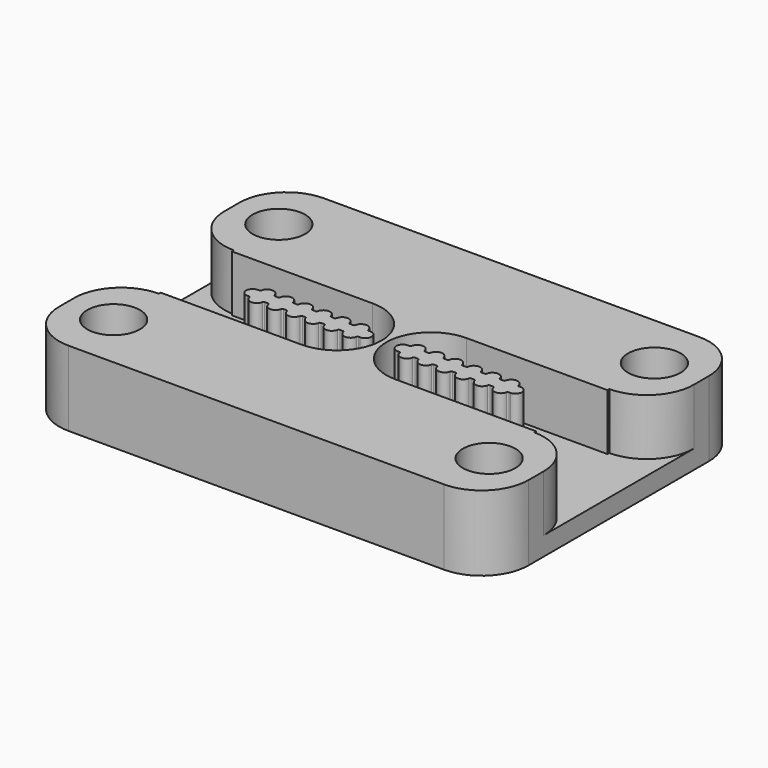
from build123d import *

# Parameters (mm, degrees)
F1_DEPTH = 2
F0_R     = 2.8
F2_DEPTH = 8


with BuildPart() as f1:
    # F0 (on Top) → F1 (new body)
    with BuildSketch(Plane.XY):
        with BuildLine():
            ThreePointArc((-20, 5), (-23.535534, 6.464466), (-25, 10))
            Line((-25, 10), (-25, -10))
            ThreePointArc((-25, -10), (-23.535534, -6.464466), (-20, -5))
            Line((-20, -5), (-20, -4.75))
            Line((-20, -4.75), (-5, -4.75))
            ThreePointArc((-5, -4.75), (-0.25, 0), (-5, 4.75))
            Line((-5, 4.75), (-20, 4.75))
            Line((-20, 4.75), (-20, 5))
        make_face()
        with BuildLine():
            Line((-2.16334, 0.68), (-2, 0.68))
            ThreePointArc((-2, 0.68), (-1.32, 0), (-2, -0.68))
            Line((-2, -0.68), (-2.16334, -0.68))
            ThreePointArc((-2.16334, -0.68), (-2.259593, -0.714955), (-2.310986, -0.803529))
            ThreePointArc((-2.310986, -0.803529), (-3, -1.38), (-3.689014, -0.803529))
            ThreePointArc((-3.689014, -0.803529), (-3.740407, -0.714955), (-3.83666, -0.68))
            Line((-3.83666, -0.68), (-4.16334, -0.68))
            ThreePointArc((-4.16334, -0.68), (-4.259593, -0.714955), (-4.310986, -0.803529))
            ThreePointArc((-4.310986, -0.803529), (-5, -1.38), (-5.689014, -0.803529))
            ThreePointArc((-5.689014, -0.803529), (-5.740407, -0.714955), (-5.83666, -0.68))
            Line((-5.83666, -0.68), (-6.16334, -0.68))
            ThreePointArc((-6.16334, -0.68), (-6.259593, -0.714955), (-6.310986, -0.803529))
            ThreePointArc((-6.310986, -0.803529), (-7, -1.38), (-7.689014, -0.803529))
            ThreePointArc((-7.689014, -0.803529), (-7.740407, -0.714955), (-7.83666, -0.68))
            Line((-7.83666, -0.68), (-8.16334, -0.68))
            ThreePointArc((-8.16334, -0.68), (-8.259593, -0.714955), (-8.310986, -0.803529))
            ThreePointArc((-8.310986, -0.803529), (-9, -1.38), (-9.689014, -0.803529))
            ThreePointArc((-9.689014, -0.803529), (-9.740407, -0.714955), (-9.83666, -0.68))
            Line((-9.83666, -0.68), (-10, -0.68))
            Line((-10, -0.68), (-10.16334, -0.68))
            ThreePointArc((-10.16334, -0.68), (-10.259593, -0.714955), (-10.310986, -0.803529))
            ThreePointArc((-10.310986, -0.803529), (-11, -1.38), (-11.689014, -0.803529))
            ThreePointArc((-11.689014, -0.803529), (-11.740407, -0.714955), (-11.83666, -0.68))
            Line((-11.83666, -0.68), (-12, -0.68))
            Line((-12, -0.68), (-12.16334, -0.68))
            ThreePointArc((-12.16334, -0.68), (-12.259593, -0.714955), (-12.310986, -0.803529))
            ThreePointArc((-12.310986, -0.803529), (-13, -1.38), (-13.689014, -0.803529))
            ThreePointArc((-13.689014, -0.803529), (-13.740407, -0.714955), (-13.83666, -0.68))
            Line((-13.83666, -0.68), (-14, -0.68))
            ThreePointArc((-14, -0.68), (-14.68, 0), (-14, 0.68))
            Line((-14, 0.68), (-13.83666, 0.68))
            ThreePointArc((-13.83666, 0.68), (-13.740407, 0.714955), (-13.689014, 0.803529))
            ThreePointArc((-13.689014, 0.803529), (-13, 1.38), (-12.310986, 0.803529))
            ThreePointArc((-12.310986, 0.803529), (-12.259593, 0.714955), (-12.16334, 0.68))
            Line((-12.16334, 0.68), (-12, 0.68))
            Line((-12, 0.68), (-11.83666, 0.68))
            ThreePointArc((-11.83666, 0.68), (-11.740407, 0.714955), (-11.689014, 0.803529))
            ThreePointArc((-11.689014, 0.803529), (-11, 1.38), (-10.310986, 0.803529))
            ThreePointArc((-10.310986, 0.803529), (-10.259593, 0.714955), (-10.16334, 0.68))
            Line((-10.16334, 0.68), (-10, 0.68))
            Line((-10, 0.68), (-9.83666, 0.68))
            ThreePointArc((-9.83666, 0.68), (-9.740407, 0.714955), (-9.689014, 0.803529))
            ThreePointArc((-9.689014, 0.803529), (-9, 1.38), (-8.310986, 0.803529))
            ThreePointArc((-8.310986, 0.803529), (-8.259593, 0.714955), (-8.16334, 0.68))
            Line((-8.16334, 0.68), (-8, 0.68))
            Line((-8, 0.68), (-7.83666, 0.68))
            ThreePointArc((-7.83666, 0.68), (-7.740407, 0.714955), (-7.689014, 0.803529))
            ThreePointArc((-7.689014, 0.803529), (-7, 1.38), (-6.310986, 0.803529))
            ThreePointArc((-6.310986, 0.803529), (-6.259593, 0.714955), (-6.16334, 0.68))
            Line((-6.16334, 0.68), (-6, 0.68))
            Line((-6, 0.68), (-5.83666, 0.68))
            ThreePointArc((-5.83666, 0.68), (-5.740407, 0.714955), (-5.689014, 0.803529))
            ThreePointArc((-5.689014, 0.803529), (-5, 1.38), (-4.310986, 0.803529))
            ThreePointArc((-4.310986, 0.803529), (-4.259593, 0.714955), (-4.16334, 0.68))
            Line((-4.16334, 0.68), (-4, 0.68))
            Line((-4, 0.68), (-3.83666, 0.68))
            ThreePointArc((-3.83666, 0.68), (-3.740407, 0.714955), (-3.689014, 0.803529))
            ThreePointArc((-3.689014, 0.803529), (-3, 1.38), (-2.310986, 0.803529))
            ThreePointArc((-2.310986, 0.803529), (-2.259593, 0.714955), (-2.16334, 0.68))
        make_face(mode=Mode.SUBTRACT)
        with BuildLine():
            Line((25, -10), (25, 10))
            ThreePointArc((25, 10), (23.535534, 6.464466), (20, 5))
            Line((20, 5), (20, 4.75))
            Line((20, 4.75), (5, 4.75))
            ThreePointArc((5, 4.75), (0.25, 0), (5, -4.75))
            Line((5, -4.75), (20, -4.75))
            Line((20, -4.75), (20, -5))
            ThreePointArc((20, -5), (23.535534, -6.464466), (25, -10))
        make_face()
        with BuildLine():
            Line((2.16334, -0.68), (2, -0.68))
            ThreePointArc((2, -0.68), (1.32, 0), (2, 0.68))
            Line((2, 0.68), (2.16334, 0.68))
            ThreePointArc((2.16334, 0.68), (2.259593, 0.714955), (2.310986, 0.803529))
            ThreePointArc((2.310986, 0.803529), (3, 1.38), (3.689014, 0.803529))
            ThreePointArc((3.689014, 0.803529), (3.740407, 0.714955), (3.83666, 0.68))
            Line((3.83666, 0.68), (4, 0.68))
            Line((4, 0.68), (4.16334, 0.68))
            ThreePointArc((4.16334, 0.68), (4.259593, 0.714955), (4.310986, 0.803529))
            ThreePointArc((4.310986, 0.803529), (5, 1.38), (5.689014, 0.803529))
            ThreePointArc((5.689014, 0.803529), (5.740407, 0.714955), (5.83666, 0.68))
            Line((5.83666, 0.68), (6, 0.68))
            Line((6, 0.68), (6.16334, 0.68))
            ThreePointArc((6.16334, 0.68), (6.259593, 0.714955), (6.310986, 0.803529))
            ThreePointArc((6.310986, 0.803529), (7, 1.38), (7.689014, 0.803529))
            ThreePointArc((7.689014, 0.803529), (7.740407, 0.714955), (7.83666, 0.68))
            Line((7.83666, 0.68), (8, 0.68))
            Line((8, 0.68), (8.16334, 0.68))
            ThreePointArc((8.16334, 0.68), (8.259593, 0.714955), (8.310986, 0.803529))
            ThreePointArc((8.310986, 0.803529), (9, 1.38), (9.689014, 0.803529))
            ThreePointArc((9.689014, 0.803529), (9.740407, 0.714955), (9.83666, 0.68))
            Line((9.83666, 0.68), (10, 0.68))
            Line((10, 0.68), (10.16334, 0.68))
            ThreePointArc((10.16334, 0.68), (10.259593, 0.714955), (10.310986, 0.803529))
            ThreePointArc((10.310986, 0.803529), (11, 1.38), (11.689014, 0.803529))
            ThreePointArc((11.689014, 0.803529), (11.740407, 0.714955), (11.83666, 0.68))
            Line((11.83666, 0.68), (12, 0.68))
            Line((12, 0.68), (12.16334, 0.68))
            ThreePointArc((12.16334, 0.68), (12.259593, 0.714955), (12.310986, 0.803529))
            ThreePointArc((12.310986, 0.803529), (13, 1.38), (13.689014, 0.803529))
            ThreePointArc((13.689014, 0.803529), (13.740407, 0.714955), (13.83666, 0.68))
            Line((13.83666, 0.68), (14, 0.68))
            ThreePointArc((14, 0.68), (14.68, 0), (14, -0.68))
            Line((14, -0.68), (13.83666, -0.68))
            ThreePointArc((13.83666, -0.68), (13.740407, -0.714955), (13.689014, -0.803529))
            ThreePointArc((13.689014, -0.803529), (13, -1.38), (12.310986, -0.803529))
            ThreePointArc((12.310986, -0.803529), (12.259593, -0.714955), (12.16334, -0.68))
            Line((12.16334, -0.68), (12, -0.68))
            Line((12, -0.68), (11.83666, -0.68))
            ThreePointArc((11.83666, -0.68), (11.740407, -0.714955), (11.689014, -0.803529))
            ThreePointArc((11.689014, -0.803529), (11, -1.38), (10.310986, -0.803529))
            ThreePointArc((10.310986, -0.803529), (10.259593, -0.714955), (10.16334, -0.68))
            Line((10.16334, -0.68), (10, -0.68))
            Line((10, -0.68), (9.83666, -0.68))
            ThreePointArc((9.83666, -0.68), (9.740407, -0.714955), (9.689014, -0.803529))
            ThreePointArc((9.689014, -0.803529), (9, -1.38), (8.310986, -0.803529))
            ThreePointArc((8.310986, -0.803529), (8.259593, -0.714955), (8.16334, -0.68))
            Line((8.16334, -0.68), (7.83666, -0.68))
            ThreePointArc((7.83666, -0.68), (7.740407, -0.714955), (7.689014, -0.803529))
            ThreePointArc((7.689014, -0.803529), (7, -1.38), (6.310986, -0.803529))
            ThreePointArc((6.310986, -0.803529), (6.259593, -0.714955), (6.16334, -0.68))
            Line((6.16334, -0.68), (5.83666, -0.68))
            ThreePointArc((5.83666, -0.68), (5.740407, -0.714955), (5.689014, -0.803529))
            ThreePointArc((5.689014, -0.803529), (5, -1.38), (4.310986, -0.803529))
            ThreePointArc((4.310986, -0.803529), (4.259593, -0.714955), (4.16334, -0.68))
            Line((4.16334, -0.68), (3.83666, -0.68))
            ThreePointArc((3.83666, -0.68), (3.740407, -0.714955), (3.689014, -0.803529))
            ThreePointArc((3.689014, -0.803529), (3, -1.38), (2.310986, -0.803529))
            ThreePointArc((2.310986, -0.803529), (2.259593, -0.714955), (2.16334, -0.68))
        make_face(mode=Mode.SUBTRACT)
    extrude(amount=F1_DEPTH)

    # F0 (on Top) → F2 (join)
    with BuildSketch(Plane.XY):
        with BuildLine():
            Line((-25, 12), (-25, 10))
            ThreePointArc((-25, 10), (-23.535534, 6.464466), (-20, 5))
            Line((-20, 5), (-20, 4.75))
            Line((-20, 4.75), (-5, 4.75))
            ThreePointArc((-5, 4.75), (-0.25, 0), (-5, -4.75))
            Line((-5, -4.75), (-20, -4.75))
            Line((-20, -4.75), (-20, -5))
            ThreePointArc((-20, -5), (-23.535534, -6.464466), (-25, -10))
            Line((-25, -10), (-25, -12))
            ThreePointArc((-25, -12), (-23.535534, -15.535534), (-20, -17))
            Line((-20, -17), (0, -17))
            Line((0, -17), (20, -17))
            ThreePointArc((20, -17), (23.535534, -15.535534), (25, -12))
            Line((25, -12), (25, -10))
            ThreePointArc((25, -10), (23.535534, -6.464466), (20, -5))
            Line((20, -5), (20, -4.75))
            Line((20, -4.75), (5, -4.75))
            ThreePointArc((5, -4.75), (0.25, 0), (5, 4.75))
            Line((5, 4.75), (20, 4.75))
            Line((20, 4.75), (20, 5))
            ThreePointArc((20, 5), (23.535534, 6.464466), (25, 10))
            Line((25, 10), (25, 12))
            ThreePointArc((25, 12), (23.535534, 15.535534), (20, 17))
            Line((20, 17), (0, 17))
            Line((0, 17), (-20, 17))
            ThreePointArc((-20, 17), (-23.535534, 15.535534), (-25, 12))
        make_face()
        with Locations((-20, -11)):
            Circle(F0_R, mode=Mode.SUBTRACT)
        with Locations((20, -11)):
            Circle(F0_R, mode=Mode.SUBTRACT)
        with Locations((-20, 11)):
            Circle(F0_R, mode=Mode.SUBTRACT)
        with Locations((20, 11)):
            Circle(F0_R, mode=Mode.SUBTRACT)
        with BuildLine():
            ThreePointArc((2, 0.68), (1.32, 0), (2, -0.68))
            Line((2, -0.68), (2.16334, -0.68))
            ThreePointArc((2.16334, -0.68), (2.259593, -0.714955), (2.310986, -0.803529))
            ThreePointArc((2.310986, -0.803529), (3, -1.38), (3.689014, -0.803529))
            ThreePointArc((3.689014, -0.803529), (3.740407, -0.714955), (3.83666, -0.68))
            Line((3.83666, -0.68), (4.16334, -0.68))
            ThreePointArc((4.16334, -0.68), (4.259593, -0.714955), (4.310986, -0.803529))
            ThreePointArc((4.310986, -0.803529), (5, -1.38), (5.689014, -0.803529))
            ThreePointArc((5.689014, -0.803529), (5.740407, -0.714955), (5.83666, -0.68))
            Line((5.83666, -0.68), (6.16334, -0.68))
            ThreePointArc((6.16334, -0.68), (6.259593, -0.714955), (6.310986, -0.803529))
            ThreePointArc((6.310986, -0.803529), (7, -1.38), (7.689014, -0.803529))
            ThreePointArc((7.689014, -0.803529), (7.740407, -0.714955), (7.83666, -0.68))
            Line((7.83666, -0.68), (8.16334, -0.68))
            ThreePointArc((8.16334, -0.68), (8.259593, -0.714955), (8.310986, -0.803529))
            ThreePointArc((8.310986, -0.803529), (9, -1.38), (9.689014, -0.803529))
            ThreePointArc((9.689014, -0.803529), (9.740407, -0.714955), (9.83666, -0.68))
            Line((9.83666, -0.68), (10, -0.68))
            Line((10, -0.68), (10.16334, -0.68))
            ThreePointArc((10.16334, -0.68), (10.259593, -0.714955), (10.310986, -0.803529))
            ThreePointArc((10.310986, -0.803529), (11, -1.38), (11.689014, -0.803529))
            ThreePointArc((11.689014, -0.803529), (11.740407, -0.714955), (11.83666, -0.68))
            Line((11.83666, -0.68), (12, -0.68))
            Line((12, -0.68), (12.16334, -0.68))
            ThreePointArc((12.16334, -0.68), (12.259593, -0.714955), (12.310986, -0.803529))
            ThreePointArc((12.310986, -0.803529), (13, -1.38), (13.689014, -0.803529))
            ThreePointArc((13.689014, -0.803529), (13.740407, -0.714955), (13.83666, -0.68))
            Line((13.83666, -0.68), (14, -0.68))
            ThreePointArc((14, -0.68), (14.68, 0), (14, 0.68))
            Line((14, 0.68), (13.83666, 0.68))
            ThreePointArc((13.83666, 0.68), (13.740407, 0.714955), (13.689014, 0.803529))
            ThreePointArc((13.689014, 0.803529), (13, 1.38), (12.310986, 0.803529))
            ThreePointArc((12.310986, 0.803529), (12.259593, 0.714955), (12.16334, 0.68))
            Line((12.16334, 0.68), (12, 0.68))
            Line((12, 0.68), (11.83666, 0.68))
            ThreePointArc((11.83666, 0.68), (11.740407, 0.714955), (11.689014, 0.803529))
            ThreePointArc((11.689014, 0.803529), (11, 1.38), (10.310986, 0.803529))
            ThreePointArc((10.310986, 0.803529), (10.259593, 0.714955), (10.16334, 0.68))
            Line((10.16334, 0.68), (10, 0.68))
            Line((10, 0.68), (9.83666, 0.68))
            ThreePointArc((9.83666, 0.68), (9.740407, 0.714955), (9.689014, 0.803529))
            ThreePointArc((9.689014, 0.803529), (9, 1.38), (8.310986, 0.803529))
            ThreePointArc((8.310986, 0.803529), (8.259593, 0.714955), (8.16334, 0.68))
            Line((8.16334, 0.68), (8, 0.68))
            Line((8, 0.68), (7.83666, 0.68))
            ThreePointArc((7.83666, 0.68), (7.740407, 0.714955), (7.689014, 0.803529))
            ThreePointArc((7.689014, 0.803529), (7, 1.38), (6.310986, 0.803529))
            ThreePointArc((6.310986, 0.803529), (6.259593, 0.714955), (6.16334, 0.68))
            Line((6.16334, 0.68), (6, 0.68))
            Line((6, 0.68), (5.83666, 0.68))
            ThreePointArc((5.83666, 0.68), (5.740407, 0.714955), (5.689014, 0.803529))
            ThreePointArc((5.689014, 0.803529), (5, 1.38), (4.310986, 0.803529))
            ThreePointArc((4.310986, 0.803529), (4.259593, 0.714955), (4.16334, 0.68))
            Line((4.16334, 0.68), (4, 0.68))
            Line((4, 0.68), (3.83666, 0.68))
            ThreePointArc((3.83666, 0.68), (3.740407, 0.714955), (3.689014, 0.803529))
            ThreePointArc((3.689014, 0.803529), (3, 1.38), (2.310986, 0.803529))
            ThreePointArc((2.310986, 0.803529), (2.259593, 0.714955), (2.16334, 0.68))
            Line((2.16334, 0.68), (2, 0.68))
        make_face()
        with BuildLine():
            ThreePointArc((-2, -0.68), (-1.32, 0), (-2, 0.68))
            Line((-2, 0.68), (-2.16334, 0.68))
            ThreePointArc((-2.16334, 0.68), (-2.259593, 0.714955), (-2.310986, 0.803529))
            ThreePointArc((-2.310986, 0.803529), (-3, 1.38), (-3.689014, 0.803529))
            ThreePointArc((-3.689014, 0.803529), (-3.740407, 0.714955), (-3.83666, 0.68))
            Line((-3.83666, 0.68), (-4, 0.68))
            Line((-4, 0.68), (-4.16334, 0.68))
            ThreePointArc((-4.16334, 0.68), (-4.259593, 0.714955), (-4.310986, 0.803529))
            ThreePointArc((-4.310986, 0.803529), (-5, 1.38), (-5.689014, 0.803529))
            ThreePointArc((-5.689014, 0.803529), (-5.740407, 0.714955), (-5.83666, 0.68))
            Line((-5.83666, 0.68), (-6, 0.68))
            Line((-6, 0.68), (-6.16334, 0.68))
            ThreePointArc((-6.16334, 0.68), (-6.259593, 0.714955), (-6.310986, 0.803529))
            ThreePointArc((-6.310986, 0.803529), (-7, 1.38), (-7.689014, 0.803529))
            ThreePointArc((-7.689014, 0.803529), (-7.740407, 0.714955), (-7.83666, 0.68))
            Line((-7.83666, 0.68), (-8, 0.68))
            Line((-8, 0.68), (-8.16334, 0.68))
            ThreePointArc((-8.16334, 0.68), (-8.259593, 0.714955), (-8.310986, 0.803529))
            ThreePointArc((-8.310986, 0.803529), (-9, 1.38), (-9.689014, 0.803529))
            ThreePointArc((-9.689014, 0.803529), (-9.740407, 0.714955), (-9.83666, 0.68))
            Line((-9.83666, 0.68), (-10, 0.68))
            Line((-10, 0.68), (-10.16334, 0.68))
            ThreePointArc((-10.16334, 0.68), (-10.259593, 0.714955), (-10.310986, 0.803529))
            ThreePointArc((-10.310986, 0.803529), (-11, 1.38), (-11.689014, 0.803529))
            ThreePointArc((-11.689014, 0.803529), (-11.740407, 0.714955), (-11.83666, 0.68))
            Line((-11.83666, 0.68), (-12, 0.68))
            Line((-12, 0.68), (-12.16334, 0.68))
            ThreePointArc((-12.16334, 0.68), (-12.259593, 0.714955), (-12.310986, 0.803529))
            ThreePointArc((-12.310986, 0.803529), (-13, 1.38), (-13.689014, 0.803529))
            ThreePointArc((-13.689014, 0.803529), (-13.740407, 0.714955), (-13.83666, 0.68))
            Line((-13.83666, 0.68), (-14, 0.68))
            ThreePointArc((-14, 0.68), (-14.68, 0), (-14, -0.68))
            Line((-14, -0.68), (-13.83666, -0.68))
            ThreePointArc((-13.83666, -0.68), (-13.740407, -0.714955), (-13.689014, -0.803529))
            ThreePointArc((-13.689014, -0.803529), (-13, -1.38), (-12.310986, -0.803529))
            ThreePointArc((-12.310986, -0.803529), (-12.259593, -0.714955), (-12.16334, -0.68))
            Line((-12.16334, -0.68), (-12, -0.68))
            Line((-12, -0.68), (-11.83666, -0.68))
            ThreePointArc((-11.83666, -0.68), (-11.740407, -0.714955), (-11.689014, -0.803529))
            ThreePointArc((-11.689014, -0.803529), (-11, -1.38), (-10.310986, -0.803529))
            ThreePointArc((-10.310986, -0.803529), (-10.259593, -0.714955), (-10.16334, -0.68))
            Line((-10.16334, -0.68), (-10, -0.68))
            Line((-10, -0.68), (-9.83666, -0.68))
            ThreePointArc((-9.83666, -0.68), (-9.740407, -0.714955), (-9.689014, -0.803529))
            ThreePointArc((-9.689014, -0.803529), (-9, -1.38), (-8.310986, -0.803529))
            ThreePointArc((-8.310986, -0.803529), (-8.259593, -0.714955), (-8.16334, -0.68))
            Line((-8.16334, -0.68), (-7.83666, -0.68))
            ThreePointArc((-7.83666, -0.68), (-7.740407, -0.714955), (-7.689014, -0.803529))
            ThreePointArc((-7.689014, -0.803529), (-7, -1.38), (-6.310986, -0.803529))
            ThreePointArc((-6.310986, -0.803529), (-6.259593, -0.714955), (-6.16334, -0.68))
            Line((-6.16334, -0.68), (-5.83666, -0.68))
            ThreePointArc((-5.83666, -0.68), (-5.740407, -0.714955), (-5.689014, -0.803529))
            ThreePointArc((-5.689014, -0.803529), (-5, -1.38), (-4.310986, -0.803529))
            ThreePointArc((-4.310986, -0.803529), (-4.259593, -0.714955), (-4.16334, -0.68))
            Line((-4.16334, -0.68), (-3.83666, -0.68))
            ThreePointArc((-3.83666, -0.68), (-3.740407, -0.714955), (-3.689014, -0.803529))
            ThreePointArc((-3.689014, -0.803529), (-3, -1.38), (-2.310986, -0.803529))
            ThreePointArc((-2.310986, -0.803529), (-2.259593, -0.714955), (-2.16334, -0.68))
            Line((-2.16334, -0.68), (-2, -0.68))
        make_face()
    extrude(amount=F2_DEPTH)


solid = f1.part
